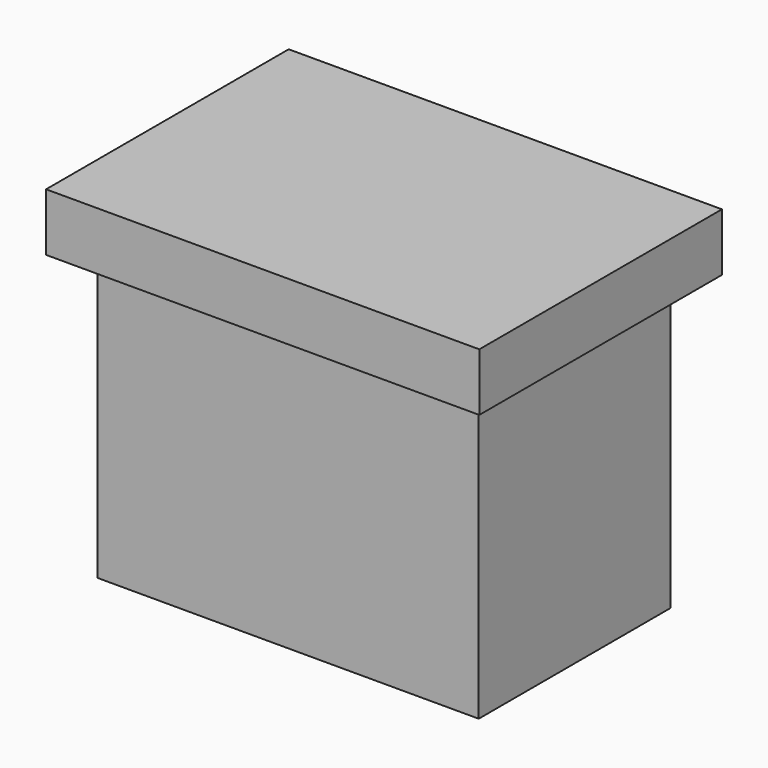
from build123d import *

# Parameters (mm, degrees)
F0_W     = 13.2
F0_H     = 8.3
F1_DEPTH = 10
F2_W     = 15
F2_H     = 10.5
F2_W_2   = 13.2
F2_H_2   = 8.3
F3_DEPTH = 2


with BuildPart() as f1:
    # F0 (on Top) → F1 (new body)
    with BuildSketch(Plane.XY):
        Rectangle(F0_W, F0_H)
    extrude(amount=F1_DEPTH)

    # F2 (on face) → F3 (join)
    with BuildSketch(Plane.XY.offset(10)):
        Rectangle(F2_W, F2_H)
        Rectangle(F2_W_2, F2_H_2, mode=Mode.SUBTRACT)
        Rectangle(F2_W_2, F2_H_2)
    extrude(amount=F3_DEPTH)


solid = f1.part
